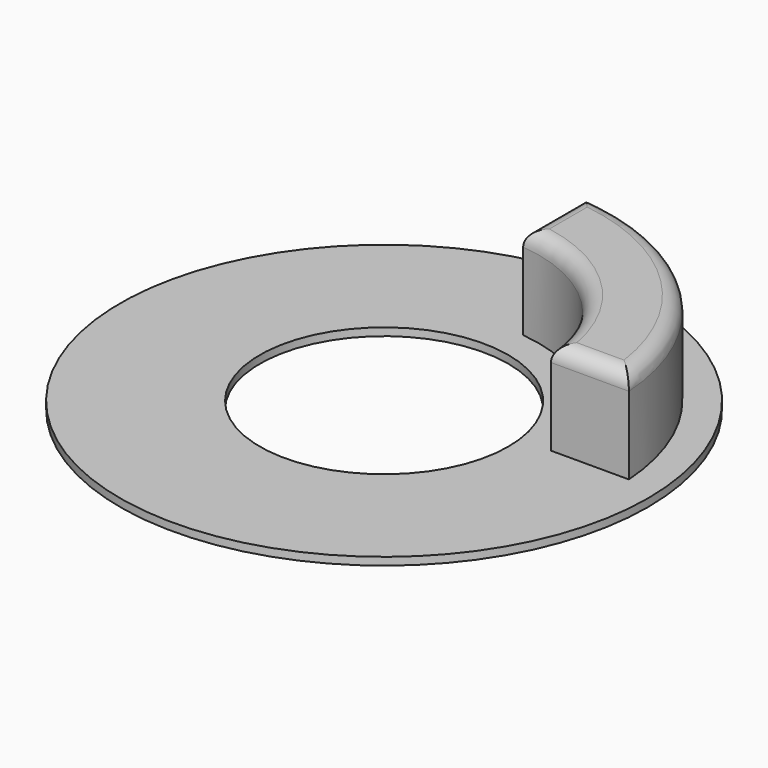
from build123d import *

# Parameters (mm, degrees)
SKETCH002_R  = 8
PAD002_DEPTH = 0.5
SKETCH_R     = 17
PAD_DEPTH    = 0.5
PAD003_DEPTH = 6
FILLET_R     = 1


with BuildPart() as pad002:
    # Sketch002 → Pad002 (new body)
    with BuildSketch(Plane.XY):
        Circle(SKETCH002_R)
    extrude(amount=PAD002_DEPTH)


with BuildPart() as cut:
    # Sketch → Pad (new body)
    with BuildSketch(Plane.XY):
        Circle(SKETCH_R)
    extrude(amount=PAD_DEPTH)

    # Cut: cut Pad002
    add(pad002.part, mode=Mode.SUBTRACT)


with BuildPart() as fillet_body:
    # Sketch003 → Pad003 (new body)
    with BuildSketch(Plane.XY.offset(0.5)):
        with BuildLine():
            Line((1, 9.949874), (1, 14.96663))
            ThreePointArc((14.96663, 1), (10.606602, 10.606602), (1, 14.96663))
            Line((9.949874, 1), (14.96663, 1))
            ThreePointArc((9.949874, 1), (7.064649, 7.064649), (1, 9.949874))
        make_face()
    extrude(amount=PAD003_DEPTH)

    # Fillet
    fillet_edges = [fillet_body.edges().sort_by_distance(p)[0] for p in [
        (7.064649, 7.064649, 6.5),
        (12.458252, 1, 6.5),
        (10.606602, 10.606602, 6.5),
        (1, 12.458252, 6.5),
    ]]
    fillet(fillet_edges, radius=FILLET_R)


solid = Compound([cut.part, fillet_body.part])
